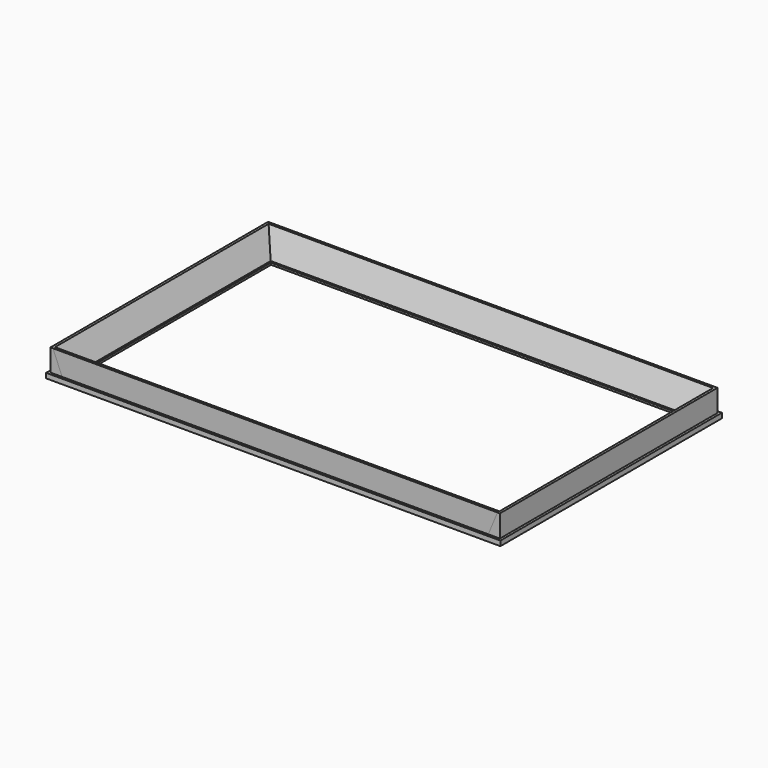
from build123d import *

# Parameters (mm, degrees)
PAD005_DEPTH           = 100
PAD005_DEPTH_BACK      = 10
PAD004_DEPTH           = 60
PAD004_DEPTH_BACK      = 10
BOX_W                  = 55.2
BOX_H                  = 91.2
BOX_DEPTH              = 5.5
BOX_PLACEMENT_ANGLE    = -90
BOX001_W               = 56.2
BOX001_H               = 92.2
BOX001_DEPTH           = 1
BOX001_PLACEMENT_ANGLE = -90


with BuildPart() as pad_bezel_top_bottom:
    # Sketch006 → Pad005 (new body, two sides)
    with BuildSketch(Plane.YZ) as pad005_sk:
        Polygon((3.1, -1), (-0.4, -1), (-0.4, -0.6), (0, -0.6), (2.1, 4.5), (2.6, 4.5), (2.6, 0), (3.1, 0), align=None)
        Polygon((-51.5, -0.6), (-52.099998, 4.5), (-52.599998, 4.5), (-52.599998, 0), (-53.1, 0), (-53.1, -1), (-51.1, -1), (-51.1, -0.6), align=None)
    extrude(amount=PAD005_DEPTH)
    extrude(pad005_sk.sketch, amount=-PAD005_DEPTH_BACK)


with BuildPart() as fusion:
    # Sketch005 → Pad004 (new body, two sides)
    with BuildSketch(Plane.XZ) as pad004_sk:
        Polygon((-3.1, -1), (0.4, -1), (0.4, -0.6), (0, -0.6), (-2.1, 4.5), (-2.6, 4.5), (-2.6, 0), (-3.1, 0), align=None)
        Polygon((85.6, -1), (89.1, -1), (89.1, 0), (88.6, 0), (88.6, 4.5), (88.1, 4.5), (86, -0.6), (85.6, -0.6), align=None)
    extrude(amount=PAD004_DEPTH)
    extrude(pad004_sk.sketch, amount=-PAD004_DEPTH_BACK)

    # Fusion: union Pad (bezel top/bottom)
    add(pad_bezel_top_bottom.part)


with BuildPart() as cube_bezel_main:
    # Box → Box (new body)
    with BuildSketch(Plane.XY):
        with Locations((27.6, 45.6)):
            Rectangle(BOX_W, BOX_H)
    extrude(amount=BOX_DEPTH)


with BuildPart() as cube_bezel_main_1:
    # Box placement: moved
    add(cube_bezel_main.part.moved(Location((-2.6, 2.6, 0))).rotate(Axis((-2.6, 2.6, 0), (0, 0, 1)), BOX_PLACEMENT_ANGLE))


with BuildPart() as common_bezel:
    # Box001 → Box001 (new body)
    with BuildSketch(Plane.XY):
        with Locations((28.1, 46.1)):
            Rectangle(BOX001_W, BOX001_H)
    extrude(amount=BOX001_DEPTH)


with BuildPart() as common_bezel_1:
    # Box001 placement: moved
    add(common_bezel.part.moved(Location((-3.1, 3.1, -1))).rotate(Axis((-3.1, 3.1, -1), (0, 0, 1)), BOX001_PLACEMENT_ANGLE))

    # Fusion001: union Cube (bezel main)
    add(cube_bezel_main_1.part)

    # Common: intersect Fusion
    add(fusion.part, mode=Mode.INTERSECT)


solid = common_bezel_1.part
